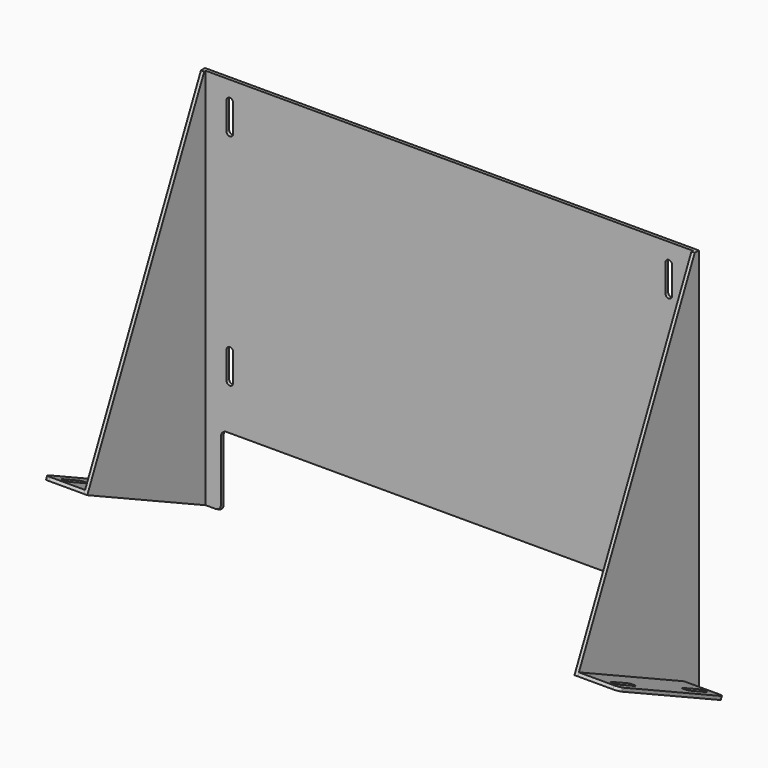
from build123d import *

# Parameters (mm, degrees)
F1_DEPTH  = 450
F2_W      = 444
F2_H      = 164.8707569358
F3_DEPTH  = 360.001
F5_DEPTH  = 450.001
F6_W      = 40
F6_H      = 132.1425742267
F7_DEPTH  = 3
F8_R      = 5
F9_R      = 5
F10_R     = 5
F11_R     = 5
F13_DEPTH = 326.2718033332
F15_DEPTH = 25
F16_W     = 415.9923672676
F16_H     = 66.3970857859
F17_DEPTH = 25
F18_W     = 450
F18_H     = 10
F19_DEPTH = 137.8889997614
F20_R     = 5
F21_R     = 5
F22_R     = 5


with BuildPart() as f1:
    # F0 (on Right) → F1 (new body)
    with BuildSketch(Plane.YZ):
        Polygon((0, 0), (0, 360), (-167.8707569358, 0), align=None)
    extrude(amount=F1_DEPTH)

    # F2 (on face) → F3 (cut, through all)
    with BuildSketch(Plane(origin=(0, 0, 0), x_dir=(1, 0, 0), z_dir=(0, 0, -1))):
        with Locations((225, 85.4353784679)):
            Rectangle(F2_W, F2_H)
    extrude(amount=-F3_DEPTH, mode=Mode.SUBTRACT)

    # F4 (on face) → F5 (cut, through all)
    with BuildSketch(Plane(origin=(0, 0, 0), x_dir=(0, -1, 0), z_dir=(-1, 0, 0))):
        Polygon((167.8707569358, 0), (137.8879997614, 64.2982302564), (0, 0), align=None)
    extrude(amount=-F5_DEPTH, mode=Mode.SUBTRACT)

    # F6 (on face) → F7 (join)
    with BuildSketch(Plane(origin=(0, 0, 0), x_dir=(1, 0, 0), z_dir=(0, -0.4226182617, -0.906307787))):
        with Locations((-17, 86.0712871133)):
            Rectangle(F6_W, F6_H)
        with Locations((467, 86.0712871133)):
            Rectangle(F6_W, F6_H)
    extrude(amount=-F7_DEPTH)

    # F8
    f8_edges = [f1.edges().sort_by_distance(p)[0] for p in [
        (-37, -137.254072, 65.657692),
    ]]
    fillet(f8_edges, radius=F8_R)

    # F9
    f9_edges = [f1.edges().sort_by_distance(p)[0] for p in [
        (487, -137.254072, 65.657692),
    ]]
    fillet(f9_edges, radius=F9_R)

    # F10
    f10_edges = [f1.edges().sort_by_distance(p)[0] for p in [
        (487, -17.492228, 9.811827),
    ]]
    fillet(f10_edges, radius=F10_R)

    # F11
    f11_edges = [f1.edges().sort_by_distance(p)[0] for p in [
        (-37, -17.492228, 9.811827),
    ]]
    fillet(f11_edges, radius=F11_R)

    # F12 (on face) → F13 (cut, through all)
    with BuildSketch(Plane(origin=(0, 0, 0), x_dir=(1, 0, 0), z_dir=(0, -0.4226182617, -0.906307787))):
        with BuildLine():
            ThreePointArc((-28.5, 121.0712871133), (-25, 117.5712871133), (-21.5, 121.0712871133))
            Line((-21.5, 121.0712871133), (-21.5, 141.0712871133))
            ThreePointArc((-21.5, 141.0712871133), (-25, 144.5712871133), (-28.5, 141.0712871133))
            Line((-28.5, 141.0712871133), (-28.5, 121.0712871133))
        make_face()
        with BuildLine():
            ThreePointArc((-21.5, 51.0712871133), (-25, 54.5712871133), (-28.5, 51.0712871133))
            Line((-28.5, 51.0712871133), (-28.5, 31.0712871133))
            ThreePointArc((-28.5, 31.0712871133), (-25, 27.5712871133), (-21.5, 31.0712871133))
            Line((-21.5, 31.0712871133), (-21.5, 51.0712871133))
        make_face()
        with BuildLine():
            ThreePointArc((471.5, 121.0712871133), (475, 117.5712871133), (478.5, 121.0712871133))
            Line((478.5, 121.0712871133), (478.5, 141.0712871133))
            ThreePointArc((478.5, 141.0712871133), (475, 144.5712871133), (471.5, 141.0712871133))
            Line((471.5, 141.0712871133), (471.5, 121.0712871133))
        make_face()
        with BuildLine():
            Line((478.5, 31.0712871133), (478.5, 51.0712871133))
            ThreePointArc((478.5, 51.0712871133), (475, 54.5712871133), (471.5, 51.0712871133))
            Line((471.5, 51.0712871133), (471.5, 31.0712871133))
            ThreePointArc((471.5, 31.0712871133), (475, 27.5712871133), (478.5, 31.0712871133))
        make_face()
    extrude(amount=-F13_DEPTH, mode=Mode.SUBTRACT)

    # F14 (on face) → F15 (cut)
    with BuildSketch(Plane(origin=(0, 0, 0), x_dir=(-1, 0, 0), z_dir=(0, 1, 0))):
        with BuildLine():
            ThreePointArc((-428, 307.5), (-425, 304.5), (-422, 307.5))
            Line((-422, 307.5), (-422, 332.5))
            ThreePointArc((-422, 332.5), (-425, 335.5), (-428, 332.5))
            Line((-428, 332.5), (-428, 307.5))
        make_face()
        with BuildLine():
            Line((-28, 332.5), (-28, 307.5))
            ThreePointArc((-28, 307.5), (-25, 304.5), (-22, 307.5))
            Line((-22, 307.5), (-22, 332.5))
            ThreePointArc((-22, 332.5), (-25, 335.5), (-28, 332.5))
        make_face()
        with BuildLine():
            ThreePointArc((-422, 132.5), (-425, 135.5), (-428, 132.5))
            Line((-428, 132.5), (-428, 107.5))
            ThreePointArc((-428, 107.5), (-425, 104.5), (-422, 107.5))
            Line((-422, 107.5), (-422, 132.5))
        make_face()
        with BuildLine():
            ThreePointArc((-22, 132.5), (-25, 135.5), (-28, 132.5))
            Line((-28, 132.5), (-28, 107.5))
            ThreePointArc((-28, 107.5), (-25, 104.5), (-22, 107.5))
            Line((-22, 107.5), (-22, 132.5))
        make_face()
    extrude(amount=-F15_DEPTH, mode=Mode.SUBTRACT)

    # F16 (on face) → F17 (cut)
    with BuildSketch(Plane.XZ.offset(3)):
        with Locations((225, 33.1985428929)):
            Rectangle(F16_W, F16_H)
    extrude(amount=-F17_DEPTH, mode=Mode.SUBTRACT)

    # F18 (on face) → F19 (cut, through all)
    with BuildSketch(Plane(origin=(0, 0, 0), x_dir=(-1, 0, 0), z_dir=(0, 1, 0))):
        with Locations((-225, 355)):
            Rectangle(F18_W, F18_H)
    extrude(amount=-F19_DEPTH, mode=Mode.SUBTRACT)

    # F20
    f20_edges = [f1.edges().sort_by_distance(p)[0] for p in [
        (17.003816, -1.5, 0.699461),
    ]]
    fillet(f20_edges, radius=F20_R)

    # F21
    f21_edges = [f1.edges().sort_by_distance(p)[0] for p in [
        (17.003816, -1.5, 66.397086),
    ]]
    fillet(f21_edges, radius=F21_R)

    # F22
    f22_edges = [f1.edges().sort_by_distance(p)[0] for p in [
        (432.996184, -1.5, 66.397086),
        (432.996184, -1.5, 0.699461),
    ]]
    fillet(f22_edges, radius=F22_R)


solid = f1.part
